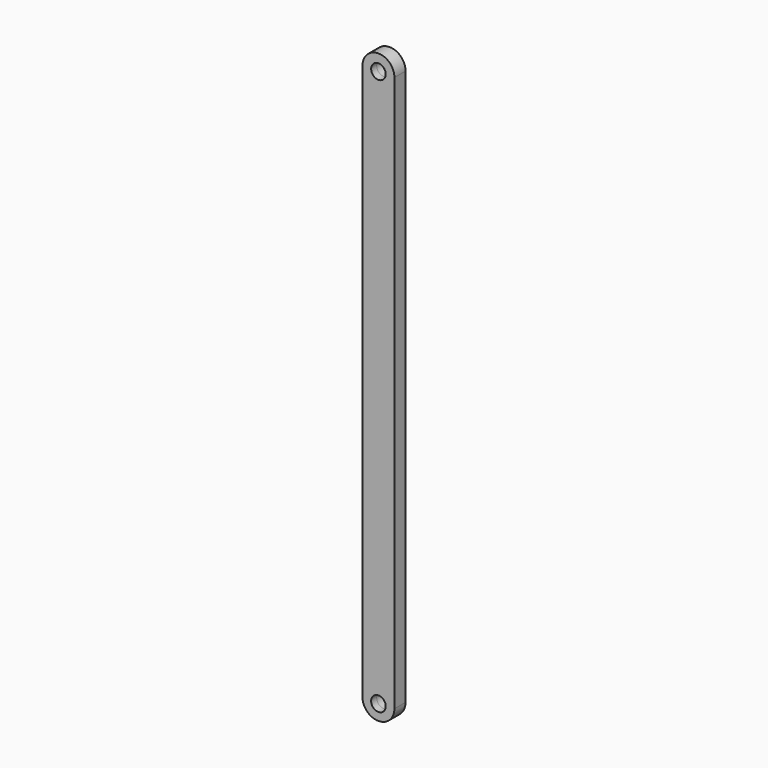
from build123d import *

# Parameters (mm, degrees)
F0_R          = 5.25
F1_DEPTH      = 5
F1_DEPTH_BACK = 5


with BuildPart() as f1:
    # F0 (on Front) → F1 (new body, two sides)
    with BuildSketch(Plane.XZ) as f1_sk:
        with BuildLine():
            ThreePointArc((11.5, 344.359994), (0, 355.859994), (-11.5, 344.359994))
            Line((-11.5, 344.359994), (-11.5, -55.640006))
            ThreePointArc((-11.5, -55.640006), (0, -67.140006), (11.5, -55.640006))
            Line((11.5, -55.640006), (11.5, 344.359994))
        make_face()
        with Locations((0, -56.160006)):
            Circle(F0_R, mode=Mode.SUBTRACT)
        with Locations((0, 344.359994)):
            Circle(F0_R, mode=Mode.SUBTRACT)
    extrude(amount=F1_DEPTH)
    extrude(f1_sk.sketch, amount=-F1_DEPTH_BACK)


solid = f1.part
